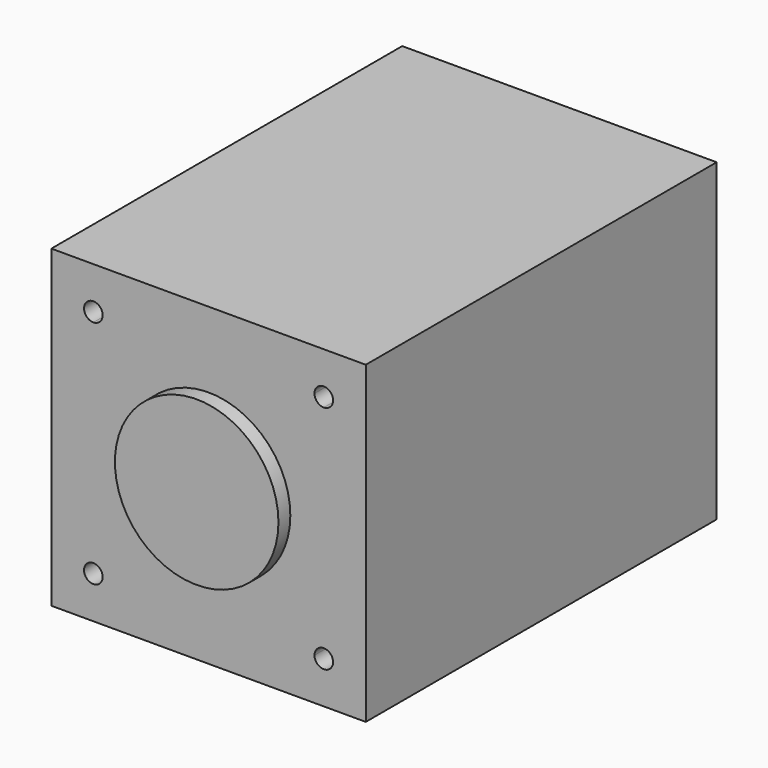
from build123d import *

# Parameters (mm, degrees)
F0_W      = 42.3
F0_H      = 42.3
F1_DEPTH  = 59
F2_R      = 11
F3_DEPTH  = 2
F4_R      = 2.5
F5_DEPTH  = 22
F7_DEPTH  = 15
F9_DEPTH  = 4.5
F10_DEPTH = 22
F11_DEPTH = 7


with BuildPart() as f1:
    # F0 (on Front) → F1 (new body)
    with BuildSketch(Plane.XZ):
        Rectangle(F0_W, F0_H)
    extrude(amount=F1_DEPTH)

    # F2 (on face) → F3 (join)
    with BuildSketch(Plane.XZ.offset(59)):
        Circle(F2_R)
    extrude(amount=F3_DEPTH)

    # F4 (on face) → F5 (join)
    with BuildSketch(Plane.XZ.offset(61)):
        Circle(F4_R)
    extrude(amount=F5_DEPTH)

    # F6 (on face) → F7 (cut)
    with BuildSketch(Plane.XZ.offset(83)):
        with BuildLine():
            ThreePointArc((0, 2.5), (-0.790569415, 2.3717082451), (-1.5, 2))
            Line((-1.5, 2), (0, 2))
            Line((0, 2), (0, 2.5))
        make_face()
        with BuildLine():
            Line((0, 2.5), (0, 2))
            Line((0, 2), (1.5, 2))
            ThreePointArc((1.5, 2), (0.790569415, 2.3717082451), (0, 2.5))
        make_face()
    extrude(amount=-F7_DEPTH, mode=Mode.SUBTRACT)

    # F8 (on face) → F9 (cut)
    with BuildSketch(Plane.XZ.offset(59)):
        with BuildLine():
            ThreePointArc((16.75, 15.5), (15.5, 16.75), (14.25, 15.5))
            Line((14.25, 15.5), (15.5, 15.5))
            Line((15.5, 15.5), (15.5, 14.25))
            ThreePointArc((15.5, 14.25), (16.3838834765, 14.6161165235), (16.75, 15.5))
        make_face()
        with BuildLine():
            Line((15.5, 15.5), (14.25, 15.5))
            ThreePointArc((14.25, 15.5), (14.6161165235, 14.6161165235), (15.5, 14.25))
            Line((15.5, 14.25), (15.5, 15.5))
        make_face()
        with BuildLine():
            Line((-15.5, 14.25), (-15.5, 15.5))
            Line((-15.5, 15.5), (-14.25, 15.5))
            ThreePointArc((-14.25, 15.5), (-16.3838834765, 16.3838834765), (-15.5, 14.25))
        make_face()
        with BuildLine():
            Line((-14.25, 15.5), (-15.5, 15.5))
            Line((-15.5, 15.5), (-15.5, 14.25))
            ThreePointArc((-15.5, 14.25), (-14.6161165235, 14.6161165235), (-14.25, 15.5))
        make_face()
        with BuildLine():
            Line((-15.5, -15.5), (-15.5, -14.25))
            ThreePointArc((-15.5, -14.25), (-16.3838834765, -16.3838834765), (-14.25, -15.5))
            Line((-14.25, -15.5), (-15.5, -15.5))
        make_face()
        with BuildLine():
            ThreePointArc((-14.25, -15.5), (-14.6161165235, -14.6161165235), (-15.5, -14.25))
            Line((-15.5, -14.25), (-15.5, -15.5))
            Line((-15.5, -15.5), (-14.25, -15.5))
        make_face()
        with BuildLine():
            Line((15.5, -15.5), (15.5, -14.25))
            ThreePointArc((15.5, -14.25), (14.6161165235, -14.6161165235), (14.25, -15.5))
            Line((14.25, -15.5), (15.5, -15.5))
        make_face()
        with BuildLine():
            ThreePointArc((16.75, -15.5), (16.3838834765, -14.6161165235), (15.5, -14.25))
            Line((15.5, -14.25), (15.5, -15.5))
            Line((15.5, -15.5), (14.25, -15.5))
            ThreePointArc((14.25, -15.5), (15.5, -16.75), (16.75, -15.5))
        make_face()
    extrude(amount=-F9_DEPTH, mode=Mode.SUBTRACT)

    # F10 (cut): a face of the model
    f10_faces = [f1.faces().sort_by_distance(p)[0] for p in [
        (0, -83, -0.120882785),
    ]]
    extrude(f10_faces, amount=-F10_DEPTH, mode=Mode.SUBTRACT)

    # F11 (cut): a face of the model
    f11_faces = [f1.faces().sort_by_distance(p)[0] for p in [
        (0, -68, 2.2018199305),
    ]]
    extrude(f11_faces, amount=-F11_DEPTH, mode=Mode.SUBTRACT)


solid = f1.part
